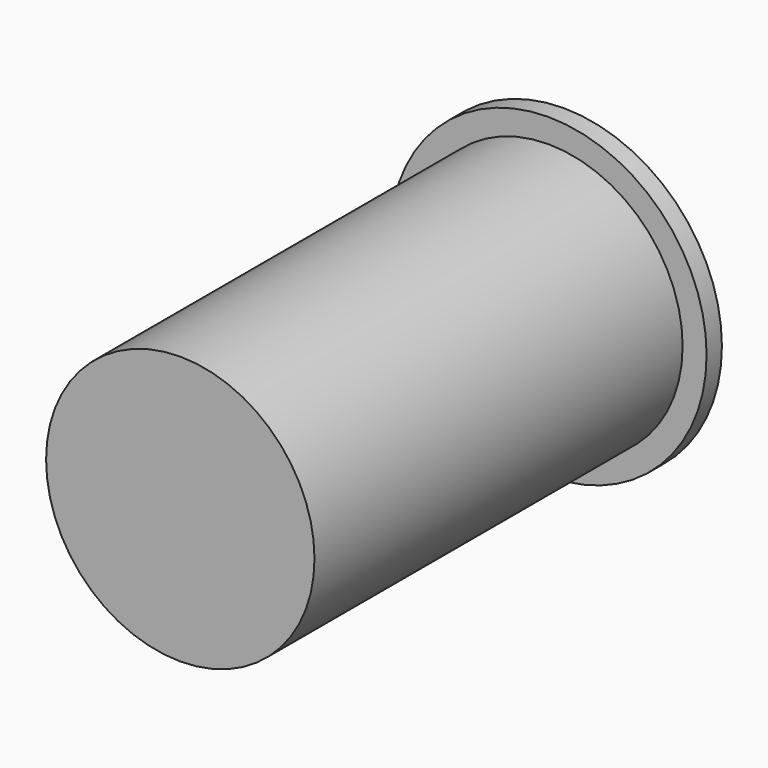
from build123d import *

# Parameters (mm, degrees)
F0_R     = 8.25
F1_DEPTH = 1
F2_R     = 7
F3_DEPTH = 25
F5_DEPTH = 5


with BuildPart() as f1:
    # F0 (on Front) → F1 (new body)
    with BuildSketch(Plane.XZ):
        Circle(F0_R)
    extrude(amount=F1_DEPTH)

    # F2 (on Front) → F3 (join)
    with BuildSketch(Plane.XZ):
        Circle(F2_R)
    extrude(amount=F3_DEPTH)

    # F4 (on Top) → F5 (join, symmetric)
    with BuildSketch(Plane.XY):
        with BuildLine():
            ThreePointArc((-4, 4.1967689234), (-5.329329795, 2.2827863089), (-5.7976606831, 0))
            Line((-5.7976606831, 0), (5, 0))
            Line((5, 0), (-4, 4.1967689234))
        make_face()
    extrude(amount=F5_DEPTH, both=True)


solid = f1.part
